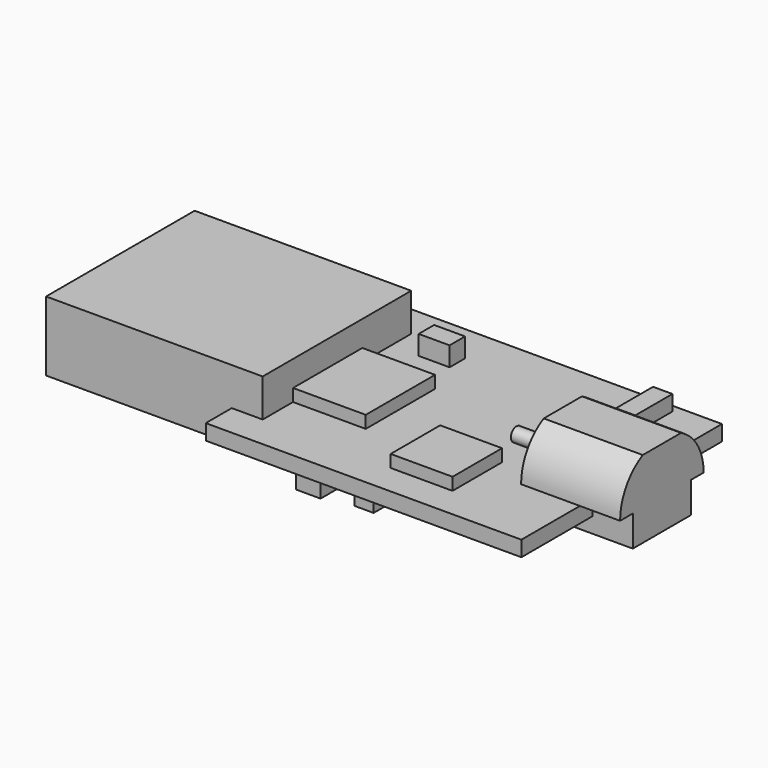
from build123d import *

# Parameters (mm, degrees)
F0_W          = 20.4
F0_H          = 16.2
F1_DEPTH      = 1
F2_W          = 12
F2_H          = 4.5
F3_DEPTH      = 12
F3_DEPTH_BACK = 2
F4_W          = 4.7
F4_H          = 1
F5_DEPTH      = 2.6
F5_DEPTH_BACK = 3.8
F6_R          = 0.45
F7_DEPTH      = 3
F8_W          = 5.6
F8_H          = 5.6
F9_DEPTH      = 0.8
F10_W         = 4
F10_H         = 4
F11_DEPTH     = 0.8
F12_W         = 2
F12_H         = 1.25
F13_DEPTH     = 1.25
F14_W         = 1.25
F14_H         = 3
F15_DEPTH     = 1
F16_W         = 2
F16_H         = 1.25
F16_W_2       = 1.25
F16_H_2       = 2
F17_DEPTH     = 1.25
F18_W         = 1.6
F18_H         = 3
F19_DEPTH     = 1.15
F20_W         = 4.25
F20_H         = 3
F21_DEPTH     = 1.15


with BuildPart() as f1:
    # F0 (on Top) → F1 (new body)
    with BuildSketch(Plane.XY):
        Rectangle(F0_W, F0_H)
    extrude(amount=-F1_DEPTH)

    # F2 (on face) → F3 (join, two sides)
    with BuildSketch(Plane(origin=(-10.2, 0, 0), x_dir=(0, -1, 0), z_dir=(-1, 0, 0))) as f3_sk:
        with Locations((0, 0.2)):
            Rectangle(F2_W, F2_H)
    extrude(amount=F3_DEPTH)
    extrude(f3_sk.sketch, amount=-F3_DEPTH_BACK)

    # F4 (on face) → F5 (join, two sides)
    with BuildSketch(Plane.YZ.offset(10.2)) as f5_sk:
        with Locations((0, -1.5)):
            Rectangle(F4_W, F4_H)
        with Locations((0, -0.5)):
            Rectangle(F4_W, F4_H)
        with BuildLine():
            Line((-3.375, 0), (-2.35, 0))
            Line((-2.35, 0), (2.35, 0))
            Line((2.35, 0), (3.375, 0))
            ThreePointArc((3.375, 0), (2.8817469144, 1.7567469144), (1.5461646096, 3))
            Line((1.5461646096, 3), (-1.5461646096, 3))
            ThreePointArc((-1.5461646096, 3), (-2.8817469144, 1.7567469144), (-3.375, 0))
        make_face()
    extrude(amount=F5_DEPTH)
    extrude(f5_sk.sketch, amount=-F5_DEPTH_BACK)

    # F6 (on face) → F7 (join)
    with BuildSketch(Plane(origin=(6.4, 0, 0), x_dir=(0, -1, 0), z_dir=(-1, 0, 0))):
        with Locations((0, 0.5)):
            Circle(F6_R)
    extrude(amount=F7_DEPTH)

    # F8 (on face) → F9 (join)
    with BuildSketch(Plane.XY):
        with Locations((-6.3, -0.75)):
            Rectangle(F8_W, F8_H)
    extrude(amount=F9_DEPTH)

    # F10 (on face) → F11 (join)
    with BuildSketch(Plane.XY):
        with Locations((2.15, -4.1)):
            Rectangle(F10_W, F10_H)
    extrude(amount=F11_DEPTH)

    # F12 (on face) → F13 (join)
    with BuildSketch(Plane.XY):
        with Locations((-5.4, 4.975)):
            Rectangle(F12_W, F12_H)
    extrude(amount=F13_DEPTH)

    # F14 (on face) → F15 (join)
    with BuildSketch(Plane.XY):
        with Locations((6.775, 6.1)):
            Rectangle(F14_W, F14_H)
    extrude(amount=F15_DEPTH)

    # F16 (on face) → F17 (join)
    with BuildSketch(Plane(origin=(0, 0, -1), x_dir=(1, 0, 0), z_dir=(0, 0, -1))):
        with Locations((0.55, -4.475)):
            Rectangle(F16_W, F16_H)
        with Locations((-3.275, -1.1)):
            Rectangle(F16_W_2, F16_H_2)
        with Locations((-0.775, 6.1)):
            Rectangle(F16_W_2, F16_H_2)
    extrude(amount=F17_DEPTH)

    # F18 (on face) → F19 (join)
    with BuildSketch(Plane(origin=(0, 0, -1), x_dir=(1, 0, 0), z_dir=(0, 0, -1))):
        with Locations((-4.15, -5.7)):
            Rectangle(F18_W, F18_H)
        with Locations((-3.9, 6.2)):
            Rectangle(F18_W, F18_H)
    extrude(amount=F19_DEPTH)

    # F20 (on face) → F21 (join)
    with BuildSketch(Plane(origin=(0, 0, -1), x_dir=(1, 0, 0), z_dir=(0, 0, -1))):
        with Locations((6.175, -4.27)):
            Rectangle(F20_W, F20_H)
    extrude(amount=F21_DEPTH)


solid = f1.part
